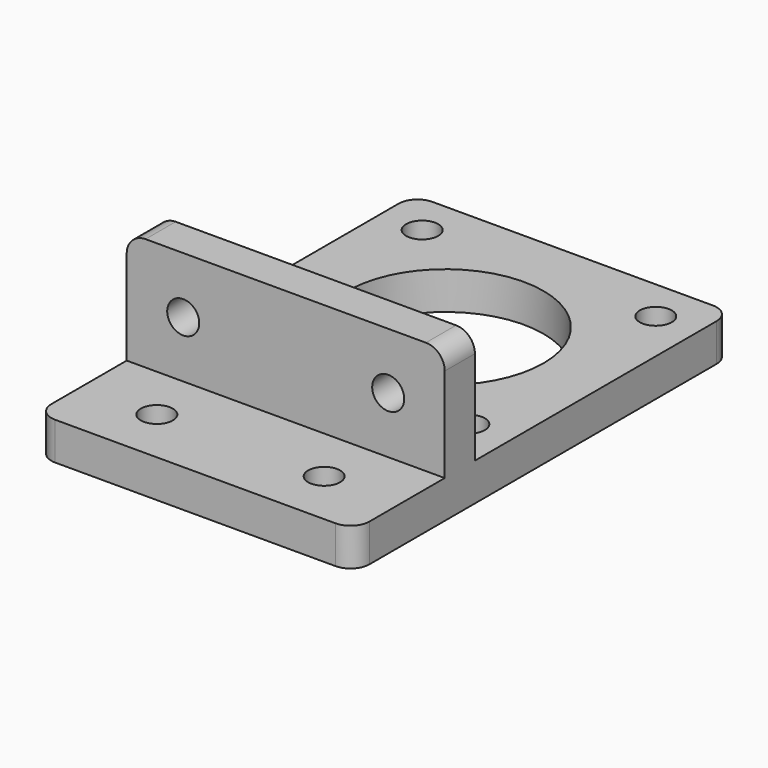
from build123d import *

# Parameters (mm, degrees)
F0_R     = 2.125
F0_R_2   = 2.12
F0_R_3   = 13
F1_DEPTH = 5
F2_W     = 42.2
F2_H     = 5
F3_DEPTH = 15
F4_R     = 2.125
F5_DEPTH = 47.601
F6_R     = 2.5


with BuildPart() as f1:
    # F0 (on Top) → F1 (new body)
    with BuildSketch(Plane.XY):
        with BuildLine():
            Line((18.6, 21.1), (0, 21.1))
            Line((0, 21.1), (-18.6, 21.1))
            ThreePointArc((-18.6, 21.1), (-20.367767, 20.367767), (-21.1, 18.6))
            Line((-21.1, 18.6), (-21.1, -39))
            ThreePointArc((-21.1, -39), (-20.367767, -40.767767), (-18.6, -41.5))
            Line((-18.6, -41.5), (0, -41.5))
            Line((0, -41.5), (18.6, -41.5))
            ThreePointArc((18.6, -41.5), (20.367767, -40.767767), (21.1, -39))
            Line((21.1, -39), (21.1, 18.6))
            ThreePointArc((21.1, 18.6), (20.367767, 20.367767), (18.6, 21.1))
        make_face()
        with Locations((-11.1, -34)):
            Circle(F0_R, mode=Mode.SUBTRACT)
        with Locations((-15.5, -15.5)):
            Circle(F0_R_2, mode=Mode.SUBTRACT)
        with Locations((11.1, -34)):
            Circle(F0_R, mode=Mode.SUBTRACT)
        with Locations((15.5, -15.5)):
            Circle(F0_R, mode=Mode.SUBTRACT)
        with Locations((-15.5, 15.5)):
            Circle(F0_R, mode=Mode.SUBTRACT)
        Circle(F0_R_3, mode=Mode.SUBTRACT)
        with Locations((15.5, 15.5)):
            Circle(F0_R, mode=Mode.SUBTRACT)
    extrude(amount=F1_DEPTH)

    # F2 (on face) → F3 (join)
    with BuildSketch(Plane.XY.offset(5)):
        with Locations((0, -24)):
            Rectangle(F2_W, F2_H)
    extrude(amount=F3_DEPTH)

    # F4 (on face) → F5 (cut, through all)
    with BuildSketch(Plane.XZ.offset(26.5)):
        with Locations((-13.6, 12.5)):
            Circle(F4_R)
        with Locations((13.6, 12.5)):
            Circle(F4_R)
    extrude(amount=-F5_DEPTH, mode=Mode.SUBTRACT)

    # F6
    f6_edges = [f1.edges().sort_by_distance(p)[0] for p in [
        (-21.1, -24, 20),
        (21.1, -24, 20),
    ]]
    fillet(f6_edges, radius=F6_R)


solid = f1.part
